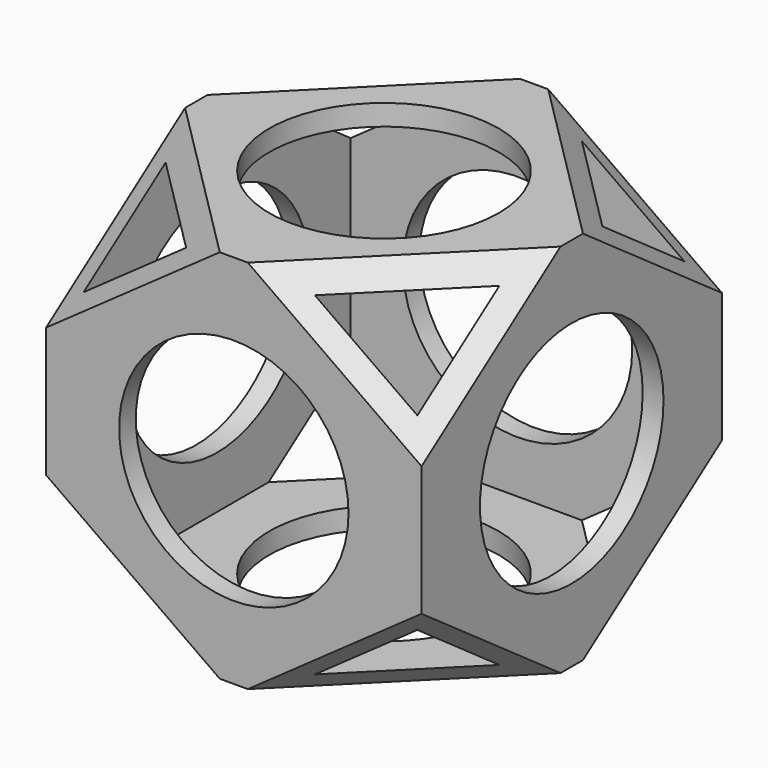
from build123d import *

# Parameters (mm, degrees)
SKETCH_W             = 90
SKETCH_H             = 90
PAD_DEPTH            = 45
SKETCH001_W          = 80
SKETCH001_H          = 80
POCKET_DEPTH         = 40
SKETCH002_R          = 27.5
POCKET001_DEPTH      = 45.001
POCKET001_DEPTH_BACK = -45.001
SKETCH003_R          = 27.5
POCKET002_DEPTH      = 45.001
POCKET002_DEPTH_BACK = -45.001
SKETCH004_R          = 27.5
POCKET003_DEPTH      = 45.001
POCKET003_DEPTH_BACK = -45.001
POCKET004_DEPTH      = 63.64061
POCKET004_DEPTH_BACK = -63.64061
POCKET005_DEPTH      = 63.64061
POCKET005_DEPTH_BACK = -63.64061


with BuildPart() as part:
    # Sketch → Pad (new body, symmetric)
    with BuildSketch(Plane.XY):
        Rectangle(SKETCH_W, SKETCH_H)
    extrude(amount=PAD_DEPTH, both=True)

    # Sketch001 → Pocket (cut, symmetric)
    with BuildSketch(Plane.XY):
        Rectangle(SKETCH001_W, SKETCH001_H)
    extrude(amount=POCKET_DEPTH, both=True, mode=Mode.SUBTRACT)

    # Sketch002 → Pocket001 (cut, two sides)
    with BuildSketch(Plane.XY) as pocket001_sk:
        Circle(SKETCH002_R)
    extrude(amount=-POCKET001_DEPTH, mode=Mode.SUBTRACT)
    extrude(pocket001_sk.sketch, amount=-POCKET001_DEPTH_BACK, mode=Mode.SUBTRACT)

    # Sketch003 → Pocket002 (cut, two sides)
    with BuildSketch(Plane.XZ) as pocket002_sk:
        Circle(SKETCH003_R)
    extrude(amount=-POCKET002_DEPTH, mode=Mode.SUBTRACT)
    extrude(pocket002_sk.sketch, amount=-POCKET002_DEPTH_BACK, mode=Mode.SUBTRACT)

    # Sketch004 → Pocket003 (cut, two sides)
    with BuildSketch(Plane.YZ) as pocket003_sk:
        Circle(SKETCH004_R)
    extrude(amount=-POCKET003_DEPTH, mode=Mode.SUBTRACT)
    extrude(pocket003_sk.sketch, amount=-POCKET003_DEPTH_BACK, mode=Mode.SUBTRACT)

    # Sketch005 → Pocket004 (cut, two sides)
    with BuildSketch(Plane(origin=(0, 0, 0), x_dir=(0.707107, 0.707107, 0), z_dir=(0.707107, -0.707107, 0))) as pocket004_sk:
        Polygon((0, 121.622366), (121.622366, 0), (0, -121.622366), (-121.622366, 0), align=None)
        Polygon((0, 79.195959), (-79.195959, 0), (0, -79.195959), (79.195959, 0), align=None, mode=Mode.SUBTRACT)
    extrude(amount=-POCKET004_DEPTH, mode=Mode.SUBTRACT)
    extrude(pocket004_sk.sketch, amount=-POCKET004_DEPTH_BACK, mode=Mode.SUBTRACT)

    # Sketch006 → Pocket005 (cut, two sides)
    with BuildSketch(Plane(origin=(0, 0, 0), x_dir=(0.707107, -0.707107, 0), z_dir=(-0.707107, -0.707107, 0))) as pocket005_sk:
        Polygon((-121.622366, 0), (0, 121.622366), (121.622366, 0), (0, -121.622366), align=None)
        Polygon((-79.195959, 0), (0, 79.195959), (79.195959, 0), (0, -79.195959), align=None, mode=Mode.SUBTRACT)
    extrude(amount=-POCKET005_DEPTH, mode=Mode.SUBTRACT)
    extrude(pocket005_sk.sketch, amount=-POCKET005_DEPTH_BACK, mode=Mode.SUBTRACT)


solid = part.part
